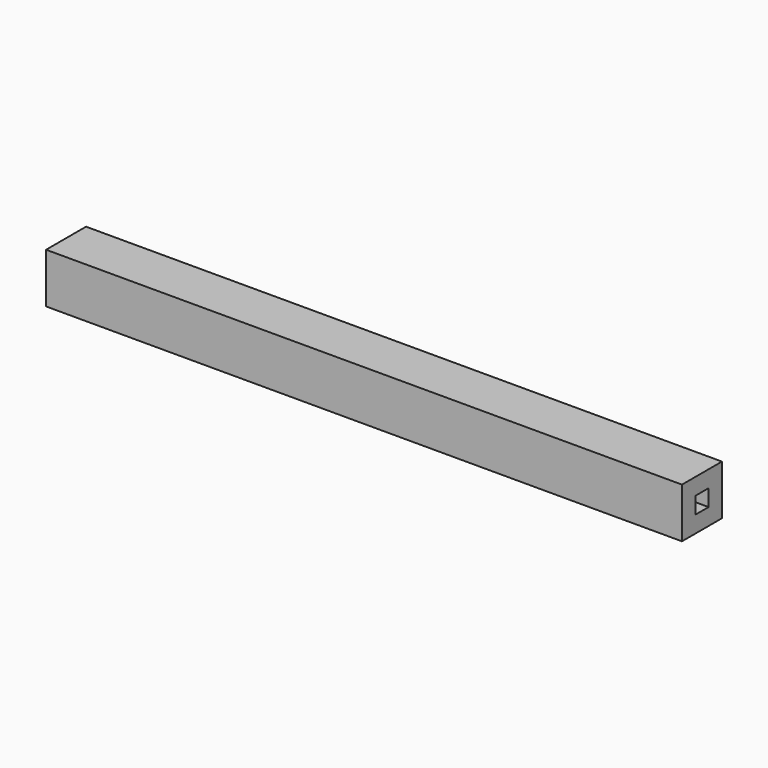
from build123d import *

# Parameters (mm, degrees)
F0_W     = 191
F0_H     = 15
F1_DEPTH = 15
F2_W     = 5
F2_H     = 5
F3_DEPTH = 200


with BuildPart() as f1:
    # F0 (on Front) → F1 (new body)
    with BuildSketch(Plane.XZ):
        with Locations((-95.5, 7.5)):
            Rectangle(F0_W, F0_H)
    extrude(amount=F1_DEPTH)

    # F2 (on face) → F3 (cut)
    with BuildSketch(Plane.YZ):
        with Locations((-7.5, 7.5)):
            Rectangle(F2_W, F2_H)
    extrude(amount=-F3_DEPTH, mode=Mode.SUBTRACT)


solid = f1.part
